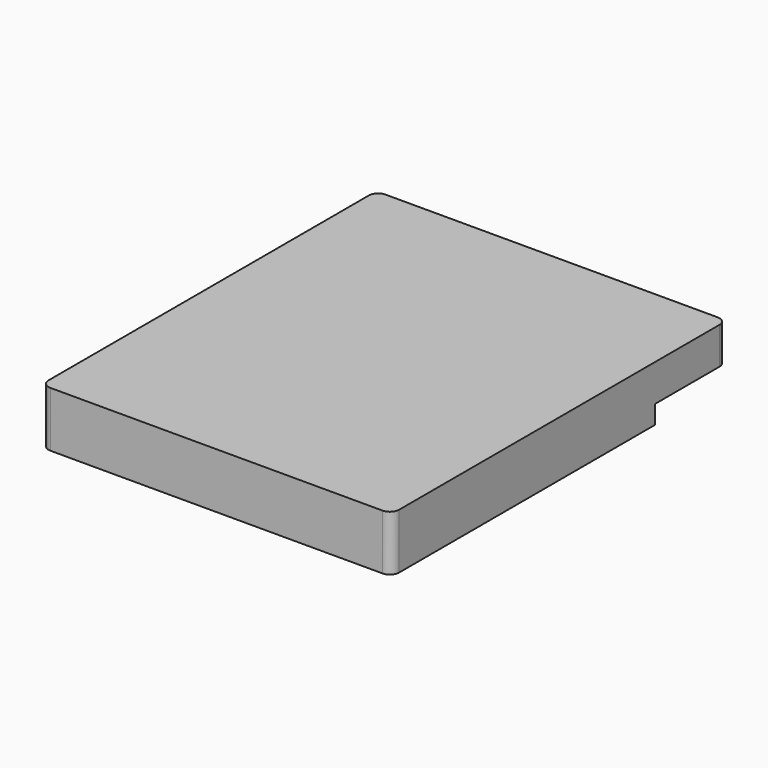
from build123d import *

# Parameters (mm, degrees)
SKETCH_W        = 9.5
SKETCH_H        = 11.35
PAD_DEPTH       = 1.5
POCKET003_DEPTH = 0.5
FILLET006_R     = 0.25


with BuildPart() as part:
    # Sketch → Pad (new body)
    with BuildSketch(Plane.XY):
        with Locations((0, -0.825)):
            Rectangle(SKETCH_W, SKETCH_H)
    extrude(amount=PAD_DEPTH)

    # Sketch009 → Pocket003 (cut)
    with BuildSketch(Plane.XY):
        with BuildLine():
            Line((4.75, 4.85), (2.5, 4.85))
            Line((2.5, 4.85), (2.5, 3.425))
            ThreePointArc((2.5, 3.425), (2.792893, 2.717893), (3.5, 2.425))
            Line((3.5, 2.425), (4.75, 2.425))
            Line((4.75, 2.425), (4.75, 4.85))
        make_face()
        with BuildLine():
            Line((-3.5, -3.25), (-4.75, -3.25))
            Line((-4.75, -3.25), (-4.75, -5.25))
            Line((-3.5, -5.25), (-4.75, -5.25))
            ThreePointArc((-3.5, -5.25), (-2.792893, -4.957107), (-2.5, -4.25))
            ThreePointArc((-2.5, -4.25), (-2.792893, -3.542893), (-3.5, -3.25))
        make_face()
    extrude(amount=POCKET003_DEPTH, mode=Mode.SUBTRACT)

    # Fillet006
    fillet006_edges = [part.edges().sort_by_distance(p)[0] for p in [
        (4.75, 4.85, 1),
        (4.75, -6.5, 0.75),
        (-4.75, -6.5, 0.75),
        (-4.75, 4.85, 0.75),
    ]]
    fillet(fillet006_edges, radius=FILLET006_R)


solid = part.part
